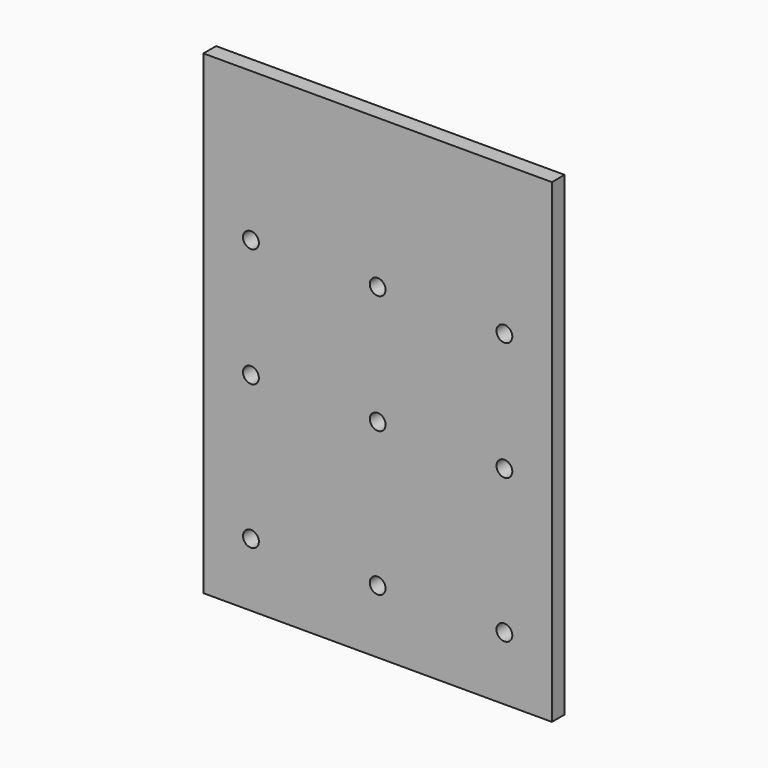
from build123d import *

# Parameters (mm, degrees)
F0_R     = 2.5
F1_DEPTH = 5


with BuildPart() as f1:
    # F0 (on Front) → F1 (new body)
    with BuildSketch(Plane.XZ):
        Polygon((-55, -75), (55, -75), (55, 75), (0, 75), (-55, 75), (-55, 38.300177), align=None)
        with Locations((-40, -55)):
            Circle(F0_R, mode=Mode.SUBTRACT)
        with Locations((-40, -9.5)):
            Circle(F0_R, mode=Mode.SUBTRACT)
        with Locations((0, -55)):
            Circle(F0_R, mode=Mode.SUBTRACT)
        with Locations((40, -55)):
            Circle(F0_R, mode=Mode.SUBTRACT)
        with Locations((0, -9.5)):
            Circle(F0_R, mode=Mode.SUBTRACT)
        with Locations((40, -9.5)):
            Circle(F0_R, mode=Mode.SUBTRACT)
        with Locations((-40, 28)):
            Circle(F0_R, mode=Mode.SUBTRACT)
        with Locations((0, 28)):
            Circle(F0_R, mode=Mode.SUBTRACT)
        with Locations((40, 28)):
            Circle(F0_R, mode=Mode.SUBTRACT)
    extrude(amount=F1_DEPTH)


solid = f1.part
